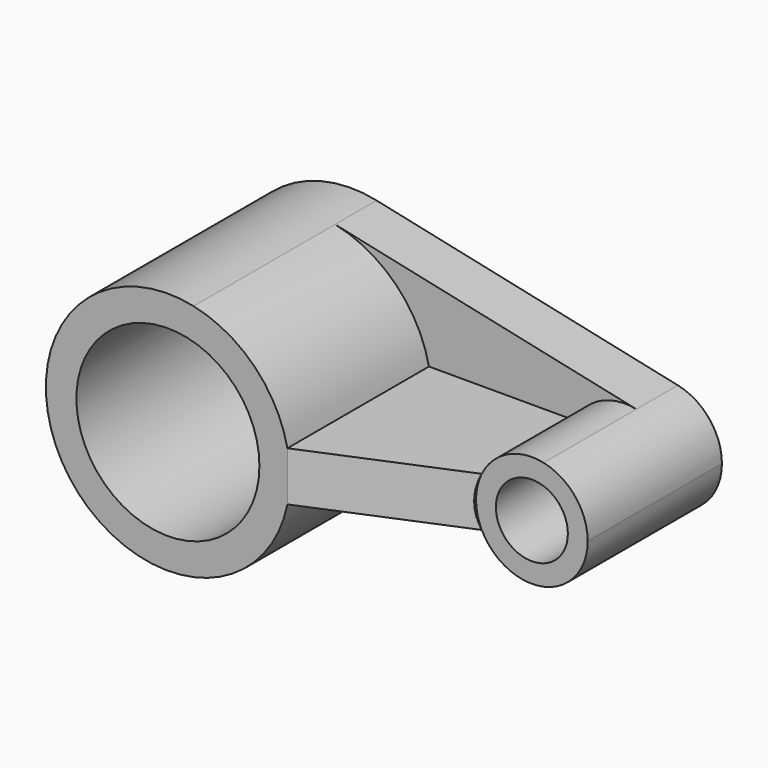
from build123d import *

# Parameters (mm, degrees)
F0_R     = 6
F1_DEPTH = 15
F2_DEPTH = 15
F0_R_2   = 2.36
F3_DEPTH = 11
F5_DEPTH = 25
F6_DEPTH = 3.4


with BuildPart() as f1:
    # F0 (on Front) → F1 (new body)
    with BuildSketch(Plane.XZ):
        with BuildLine():
            ThreePointArc((7.834258, -1.62), (7.958457, -0.814228), (8, 0))
            ThreePointArc((8, 0), (7.958457, 0.814228), (7.834258, 1.62))
            ThreePointArc((7.834258, 1.62), (5.678687, 5.634937), (1.680542, 7.821495))
            ThreePointArc((1.680542, 7.821495), (-8, 0), (1.680542, -7.821495))
            ThreePointArc((1.680542, -7.821495), (5.678687, -5.634937), (7.834258, -1.62))
        make_face()
        Circle(F0_R, mode=Mode.SUBTRACT)
    extrude(amount=F1_DEPTH)

    # F0 (on Front) → F2 (join)
    with BuildSketch(Plane.XZ):
        with BuildLine():
            ThreePointArc((7.834258, 1.62), (7.958457, 0.814228), (8, 0))
            ThreePointArc((8, 0), (7.958457, -0.814228), (7.834258, -1.62))
            Line((7.834258, -1.62), (17.378049, -1.62))
            ThreePointArc((17.378049, -1.62), (17, 0), (17.378049, 1.62))
            Line((17.378049, 1.62), (7.834258, 1.62))
        make_face()
    extrude(amount=F2_DEPTH)

    # F0 (on Front) → F3 (join)
    with BuildSketch(Plane.XZ):
        with BuildLine():
            ThreePointArc((21.428848, 3.578334), (19.066987, 3.295134), (17.378049, 1.62))
            ThreePointArc((17.378049, 1.62), (17, 0), (17.378049, -1.62))
            ThreePointArc((17.378049, -1.62), (19.066987, -3.295134), (21.428848, -3.578334))
            ThreePointArc((21.428848, -3.578334), (23.506892, -2.300176), (24.32, 0))
            ThreePointArc((24.32, 0), (23.506892, 2.300176), (21.428848, 3.578334))
        make_face()
        with Locations((20.66, 0)):
            Circle(F0_R_2, mode=Mode.SUBTRACT)
    extrude(amount=F3_DEPTH)

    # F4 (on face) → F5 (cut)
    with BuildSketch(Plane(origin=(0, 0, -1.62), x_dir=(1, 0, 0), z_dir=(0, 0, -1))):
        Polygon((17.378049, 15), (7.834258, 15), (17.378049, 11), align=None)
    extrude(amount=-F5_DEPTH, mode=Mode.SUBTRACT)

    # F0 (on Front) → F6 (join)
    with BuildSketch(Plane.XZ):
        with BuildLine():
            ThreePointArc((1.680542, 7.821495), (5.678687, 5.634937), (7.834258, 1.62))
            Line((7.834258, 1.62), (17.378049, 1.62))
            ThreePointArc((17.378049, 1.62), (19.066987, 3.295134), (21.428848, 3.578334))
            Line((21.428848, 3.578334), (1.680542, 7.821495))
        make_face()
        with BuildLine():
            Line((17.378049, -1.62), (7.834258, -1.62))
            ThreePointArc((7.834258, -1.62), (5.678687, -5.634937), (1.680542, -7.821495))
            Line((1.680542, -7.821495), (21.428848, -3.578334))
            ThreePointArc((21.428848, -3.578334), (19.066987, -3.295134), (17.378049, -1.62))
        make_face()
    extrude(amount=F6_DEPTH)


solid = f1.part
